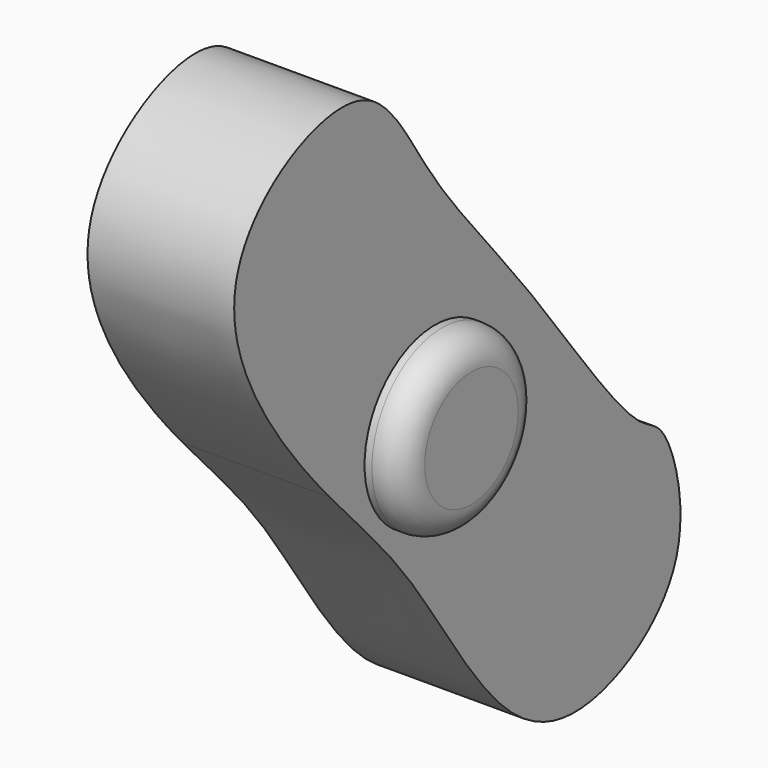
from build123d import *

# Parameters (mm, degrees)
F1_DEPTH = 25.4
F2_R     = 15.2023379057
F3_DEPTH = 6.35
F4_R     = 5.08
F5_R     = 14.9654101867
F6_DEPTH = 6.35
F7_R     = 5.08


with BuildPart() as f1:
    # F0 (on Right) → F1 (new body)
    with BuildSketch(Plane.YZ):
        with BuildLine():
            add(Edge.make_bspline(
                [(17.5895973285, 8.6684559332), (12.926883986, 14.595669488), (8.5494174917, 19.6884086013), (4.5840121801, 24.5384006165)],
                knots=[0.0995191246, 0.0995191246, 0.0995191246, 0.0995191246, 0.152721543, 0.152721543, 0.152721543, 0.152721543], degree=3))
            add(Edge.make_bspline(
                [(4.5840121801, 24.5384006165), (-2.6449352498, 24.2912825538), (-16.1555832179, 23.8277360507), (-20.8656688407, 7.9987518659), (-26.1889236954, 0.4550080745), (-25.6655710399, -3.5394503148), (-25.4385583103, -5.2721607499)],
                knots=[0, 0, 0, 0, 0.3250640996, 0.6074597615, 0.8297202417, 1, 1, 1, 1], degree=3))
            add(Edge.make_bspline(
                [(-25.4385583103, -5.2721607499), (-19.4594130533, -11.9211098705), (-7.0275398922, -23.92143448), (11.2285332479, -56.499011327), (31.8657157041, -62.3988290991), (54.7809349484, -47.6982303514), (47.7318843456, -22.8967932655), (43.6377429171, -22.5775247161), (41.4221696556, -20.8011046052)],
                knots=[0.5588461474, 0.5588461474, 0.5588461474, 0.5588461474, 0.6425413931, 0.7389755952, 0.8090175152, 0.8859010502, 0.9589551189, 1, 1, 1, 1], degree=3))
            add(Edge.make_bspline(
                [(41.4221696556, -20.8011046052), (36.2724600651, -16.6721291203), (27.1098664748, -3.5665562843), (18.677022654, 7.2778597007)],
                knots=[0, 0, 0, 0, 0.0954015927, 0.0954015927, 0.0954015927, 0.0954015927], degree=3))
            add(Edge.make_bspline(
                [(18.677022654, 7.2778597007), (20.5479403218, 4.5193017031), (22.7185021169, -2.2242411706), (20.9560532942, -4.5004371737), (20.4507708549, -5.8810990304)],
                knots=[0.855051074, 0.855051074, 0.855051074, 0.855051074, 0.9432583461, 1, 1, 1, 1], degree=3))
            add(Edge.make_bspline(
                [(20.4507708549, -5.8810990304), (19.7334866596, -7.8410462834), (18.9363412125, -14.6456595882), (6.7083467506, -23.7841967524), (-6.5196901774, -21.2806184823), (-14.2159187864, -13.5782446445), (-18.6143428061, -2.5133707137), (-11.6738903391, 8.7514405367), (-3.167673086, 18.2061044328), (10.8069775822, 13.3883321592), (15.9377118907, 10.4988793955), (17.5895973285, 8.6684559332)],
                knots=[0, 0, 0, 0, 0.0805487948, 0.1860104875, 0.2852583123, 0.3766701629, 0.4688855974, 0.5686999528, 0.6641075306, 0.7690941368, 0.8388777749, 0.8388777749, 0.8388777749, 0.8388777749], degree=3))
        make_face()
        with BuildLine():
            add(Edge.make_bspline(
                [(4.5840121801, 24.5384006165), (-2.6449352498, 24.2912825538), (-16.1555832179, 23.8277360507), (-20.8656688407, 7.9987518659), (-26.1889236954, 0.4550080745), (-25.6655710399, -3.5394503148), (-25.4385583103, -5.2721607499)],
                knots=[0, 0, 0, 0, 0.3250640996, 0.6074597615, 0.8297202417, 1, 1, 1, 1], degree=3))
            add(Edge.make_bspline(
                [(4.5840121801, 24.5384006165), (1.495955059, 28.3153291277), (-6.4591174842, 38.4890393217), (-15.2300614855, 56.3009606306), (-36.68626185, 50.668932912), (-48.6411700722, 36.077924192), (-42.9908909127, 15.8445771028), (-31.5144702266, 1.4843951551), (-25.4385583103, -5.2721607499)],
                knots=[0.152721543, 0.152721543, 0.152721543, 0.152721543, 0.1941528958, 0.2688492969, 0.337197153, 0.4035534252, 0.4737963753, 0.5588461474, 0.5588461474, 0.5588461474, 0.5588461474], degree=3))
        make_face()
        with BuildLine():
            add(Edge.make_bspline(
                [(18.677022654, 7.2778597007), (18.3492834329, 7.6993237434), (17.9865460441, 8.1635757898), (17.6255113718, 8.6228022143), (17.5895973285, 8.6684559332)],
                knots=[0.0954015927, 0.0954015927, 0.0954015927, 0.0954015927, 0.0991093388, 0.0995191246, 0.0995191246, 0.0995191246, 0.0995191246], degree=3))
            add(Edge.make_bspline(
                [(20.4507708549, -5.8810990304), (19.7334866596, -7.8410462834), (18.9363412125, -14.6456595882), (6.7083467506, -23.7841967524), (-6.5196901774, -21.2806184823), (-14.2159187864, -13.5782446445), (-18.6143428061, -2.5133707137), (-11.6738903391, 8.7514405367), (-3.167673086, 18.2061044328), (10.8069775822, 13.3883321592), (15.9377118907, 10.4988793955), (17.5895973285, 8.6684559332)],
                knots=[0, 0, 0, 0, 0.0805487948, 0.1860104875, 0.2852583123, 0.3766701629, 0.4688855974, 0.5686999528, 0.6641075306, 0.7690941368, 0.8388777749, 0.8388777749, 0.8388777749, 0.8388777749], degree=3))
            add(Edge.make_bspline(
                [(18.677022654, 7.2778597007), (20.5479403218, 4.5193017031), (22.7185021169, -2.2242411706), (20.9560532942, -4.5004371737), (20.4507708549, -5.8810990304)],
                knots=[0.855051074, 0.855051074, 0.855051074, 0.855051074, 0.9432583461, 1, 1, 1, 1], degree=3))
        make_face()
    extrude(amount=F1_DEPTH)

    # F2 (on face) → F3 (join)
    with BuildSketch(Plane.YZ.offset(25.4)):
        with Locations((-2.6827834081, -3.4718343522)):
            Circle(F2_R)
    extrude(amount=F3_DEPTH)

    # F4
    f4_edges = [f1.edges().sort_by_distance(p)[0] for p in [
        (31.75, -17.885121, -3.471834),
    ]]
    fillet(f4_edges, radius=F4_R)

    # F5 (on face) → F6 (join)
    with BuildSketch(Plane(origin=(0, 0, 0), x_dir=(0, -1, 0), z_dir=(-1, 0, 0))):
        Circle(F5_R)
    extrude(amount=F6_DEPTH)

    # F7
    f7_edges = [f1.edges().sort_by_distance(p)[0] for p in [
        (-6.35, 14.96541, 0),
    ]]
    fillet(f7_edges, radius=F7_R)


solid = f1.part
